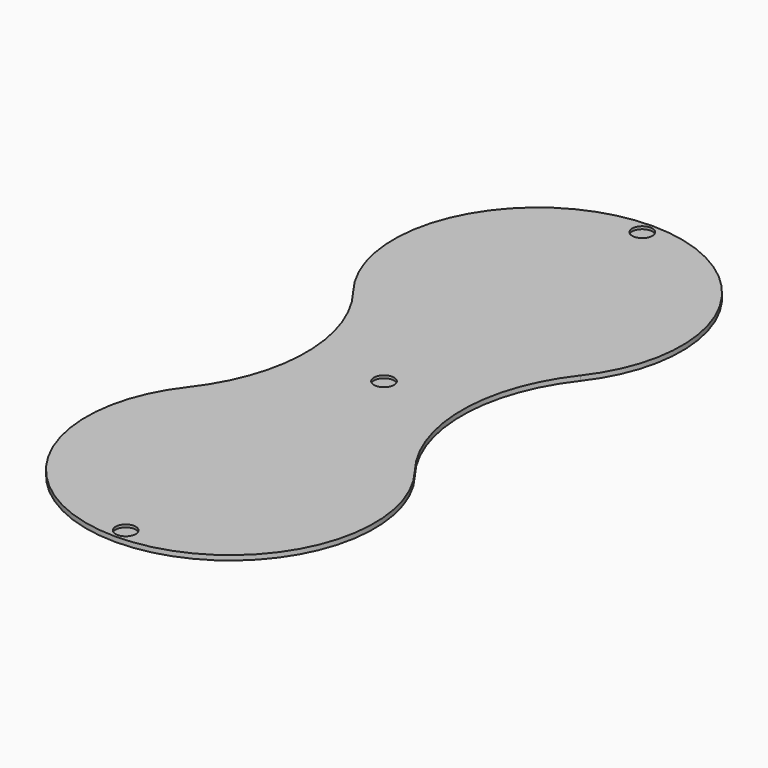
from build123d import *

# Parameters (mm, degrees)
PAD_DEPTH    = 2
SKETCH001_R  = 4.2
POCKET_DEPTH = 1.1


with BuildPart() as part:
    # Sketch → Pad (new body)
    with BuildSketch(Plane.XY):
        with BuildLine():
            ThreePointArc((-47.293619, 36.923077), (0, -60), (47.293619, 36.923077))
            ThreePointArc((47.293619, 123.076923), (32.469508, 80), (47.293619, 36.923077))
            ThreePointArc((47.293619, 123.076923), (0, 220), (-47.293619, 123.076923))
            ThreePointArc((-47.293619, 36.923077), (-32.469508, 80), (-47.293619, 123.076923))
        make_face()
    extrude(amount=PAD_DEPTH)

    # Sketch001 (on Face6 of Pad) → Pocket (cut)
    with BuildSketch(Plane.XY.offset(2)):
        with Locations((0, -54.5)):
            Circle(SKETCH001_R)
        with Locations((0, 214.5)):
            Circle(SKETCH001_R)
        with Locations((0, 80)):
            Circle(SKETCH001_R)
    extrude(amount=-POCKET_DEPTH, mode=Mode.SUBTRACT)


solid = part.part
